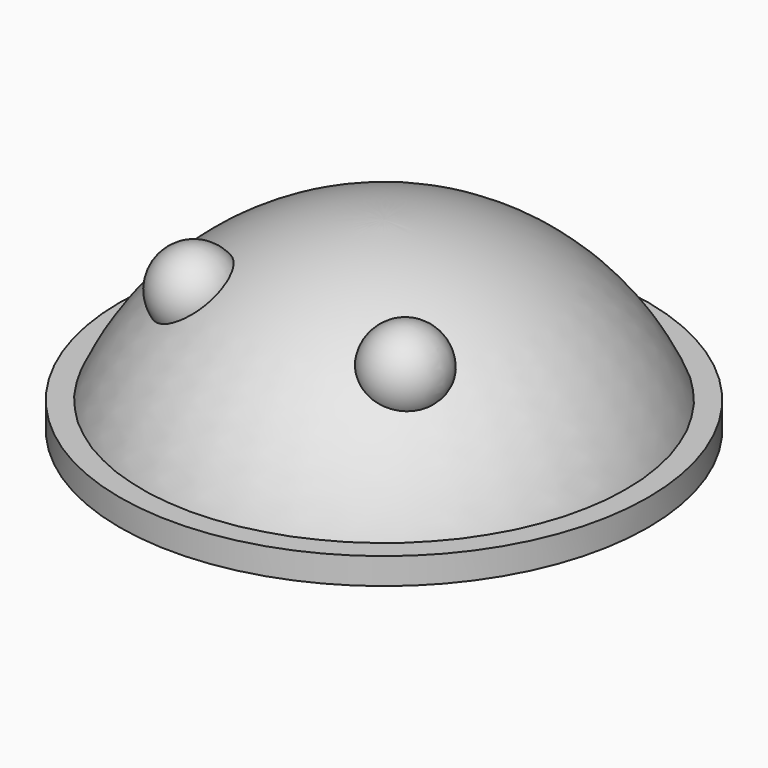
from build123d import *

# Parameters (mm, degrees)
CYLINDER_R     = 10
CYLINDER_DEPTH = 1


with BuildPart() as cilindre:
    # Cylinder → Cylinder (new body)
    with BuildSketch(Plane.XY):
        Circle(CYLINDER_R)
    extrude(amount=CYLINDER_DEPTH)


with BuildPart() as esfera:
    # Sphere → Sphere (revolve)
    with BuildSketch(Plane(origin=(0, 0, -3), x_dir=(1, 0, 0), z_dir=(0, -1, 0))):
        with BuildLine():
            ThreePointArc((9.396926, 3.420201), (5.735764, 8.19152), (0, 10))
            Line((0, 10), (0, 3.420201))
            Line((0, 3.420201), (9.396926, 3.420201))
        make_face()
    revolve(axis=Axis((0, 0, -3), (0, 0, 1)))


with BuildPart() as sphere001:
    # Sphere001 → Sphere001 (revolve)
    with BuildSketch(Plane(origin=(4, -4, 5), x_dir=(1, 0, 0), z_dir=(0, -1, 0))):
        with BuildLine():
            ThreePointArc((0, -1.5), (1.5, 0), (0, 1.5))
            Line((0, 1.5), (0, -1.5))
        make_face()
    revolve(axis=Axis((4, -4, 5), (0, 0, 1)))


with BuildPart() as sphere002:
    # Sphere002 → Sphere002 (revolve)
    with BuildSketch(Plane(origin=(-4, -4, 5), x_dir=(1, 0, 0), z_dir=(0, -1, 0))):
        with BuildLine():
            ThreePointArc((0, -1.5), (1.5, 0), (0, 1.5))
            Line((0, 1.5), (0, -1.5))
        make_face()
    revolve(axis=Axis((-4, -4, 5), (0, 0, 1)))


solid = Compound([cilindre.part, esfera.part, sphere001.part, sphere002.part])
